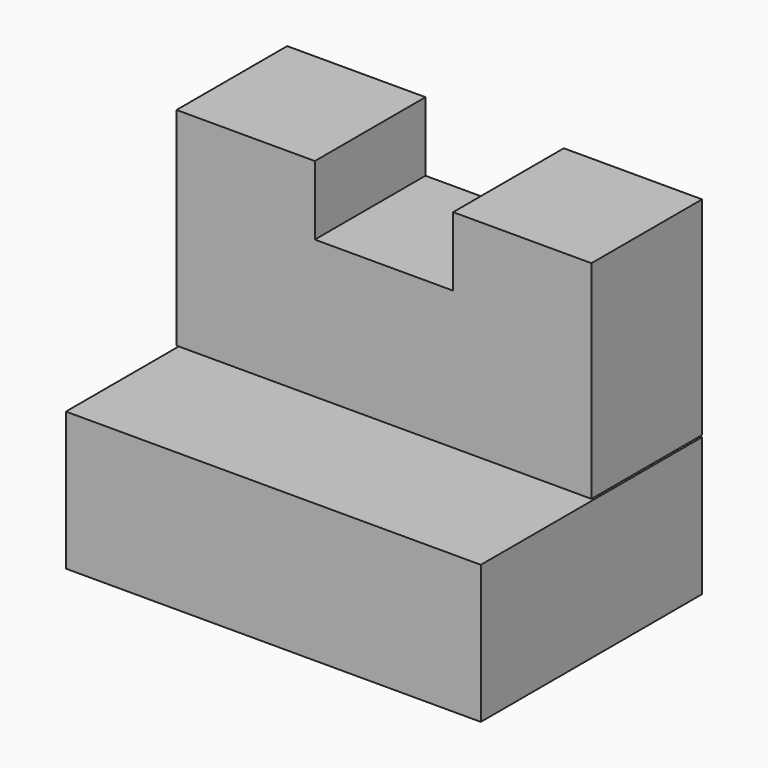
from build123d import *

# Parameters (mm, degrees)
F0_W     = 38.1
F0_H     = 12.7
F1_DEPTH = 25.4
F3_DEPTH = 12.7


with BuildPart() as f1:
    # F0 (on Front) → F1 (new body)
    with BuildSketch(Plane.XZ):
        with Locations((19.05, 6.35)):
            Rectangle(F0_W, F0_H)
    extrude(amount=F1_DEPTH)


with BuildPart() as f3:
    # F2 (on Front) → F3 (new body)
    with BuildSketch(Plane.XZ):
        Polygon((0, 31.919826), (0, 12.869826), (38.1, 12.869826), (38.1, 31.919826), (25.4, 31.919826), (25.4, 25.569826), (12.7, 25.569826), (12.7, 31.919826), align=None)
    extrude(amount=F3_DEPTH)


solid = Compound([f1.part, f3.part])
